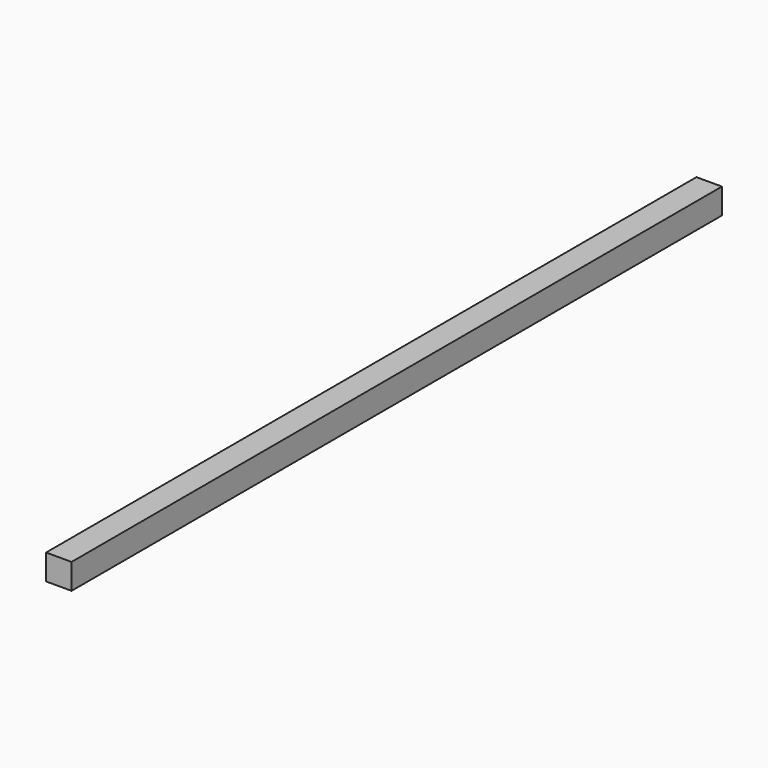
from build123d import *

# Parameters (mm, degrees)
F2_W = 50
F2_H = 50


with BuildPart() as f3:
    # F3: sweep along a path in F0
    with BuildLine(Plane.YZ) as f3_path:
        Line((-797.5, 0), (797.5, 0))
    # F2 (on offset) → F3 (sweep)
    with BuildSketch(Plane.XZ.offset(797.5)):
        Rectangle(F2_W, F2_H)
    sweep(path=f3_path.line)


solid = f3.part
